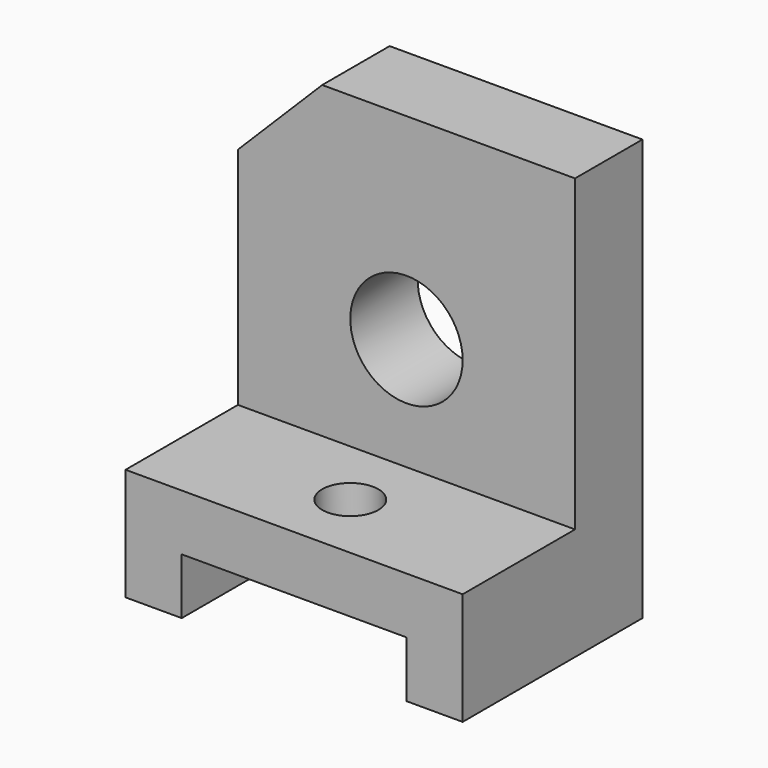
from build123d import *

# Parameters (mm, degrees)
F1_DEPTH = 40
F2_W     = 60
F2_H     = 15
F3_DEPTH = 55
F5_DEPTH = 38.1
F6_R     = 10
F7_DEPTH = 25.4
F8_R     = 5
F9_DEPTH = 25.4


with BuildPart() as f1:
    # F0 (on Front) → F1 (new body)
    with BuildSketch(Plane.XZ):
        Polygon((-30, 20), (-30, 0), (-20, 0), (-20, 10), (20, 10), (20, 0), (30, 0), (30, 20), align=None)
    extrude(amount=F1_DEPTH)

    # F2 (on face) → F3 (join)
    with BuildSketch(Plane.XY.offset(20)):
        with Locations((0, -7.5)):
            Rectangle(F2_W, F2_H)
    extrude(amount=F3_DEPTH)

    # F4 (on face) → F5 (cut)
    with BuildSketch(Plane.XZ.offset(15)):
        Polygon((-30, 60), (-15, 75), (-30, 75), align=None)
    extrude(amount=-F5_DEPTH, mode=Mode.SUBTRACT)

    # F6 (on face) → F7 (cut)
    with BuildSketch(Plane.XZ.offset(15)):
        with Locations((0, 40)):
            Circle(F6_R)
    extrude(amount=-F7_DEPTH, mode=Mode.SUBTRACT)

    # F8 (on face) → F9 (cut)
    with BuildSketch(Plane.XY.offset(20)):
        with Locations((0, -27.5)):
            Circle(F8_R)
    extrude(amount=-F9_DEPTH, mode=Mode.SUBTRACT)


solid = f1.part
